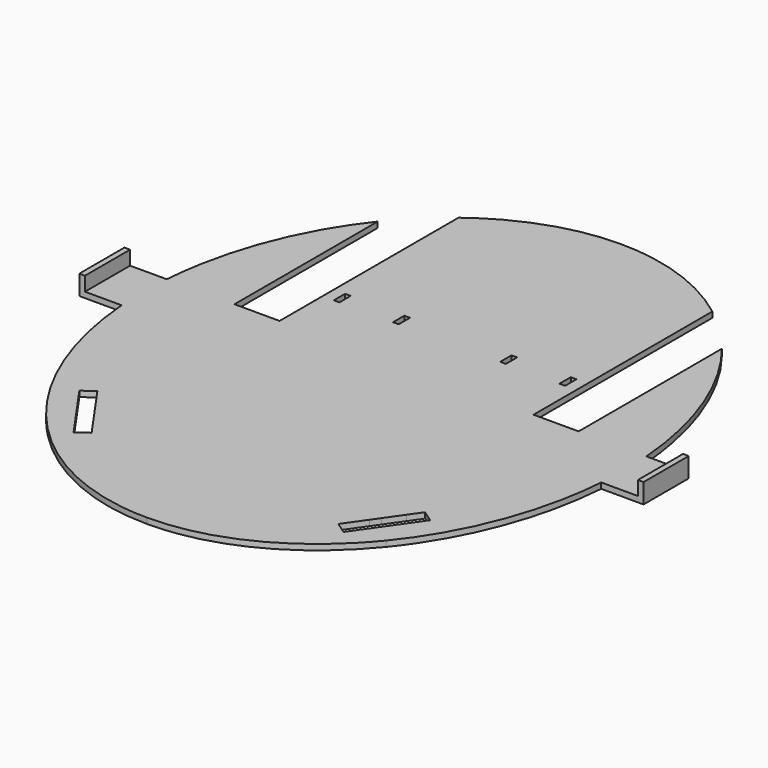
from build123d import *

# Parameters (mm, degrees)
F0_W      = 170
F0_H      = 210
F1_DEPTH  = 2
F2_W      = 15
F2_H      = 20
F3_DEPTH  = 2
F4_W      = 2
F4_H      = 20
F5_DEPTH  = 5
F7_DEPTH  = 2.001
F9_DEPTH  = 2.0010001
F11_DEPTH = 2.0010001
F12_W     = 2
F12_H     = 5
F13_DEPTH = 2.0010001


with BuildPart() as f1:
    # F0 (on Top) → F1 (new body)
    with BuildSketch(Plane.XY):
        with Locations((85, 105)):
            Rectangle(F0_W, F0_H)
    extrude(amount=F1_DEPTH)

    # F2 (on face) → F3 (join)
    with BuildSketch(Plane.XY.offset(2)):
        with Locations((-7.5, 105)):
            Rectangle(F2_W, F2_H)
        with Locations((177.5, 105)):
            Rectangle(F2_W, F2_H)
    extrude(amount=-F3_DEPTH)

    # F4 (on face) → F5 (join)
    with BuildSketch(Plane.XY.offset(2)):
        with Locations((184, 105)):
            Rectangle(F4_W, F4_H)
        with Locations((-14, 105)):
            Rectangle(F4_W, F4_H)
    extrude(amount=F5_DEPTH)

    # F6 (on face) → F7 (cut, through all)
    with BuildSketch(Plane.XY.offset(2)):
        with BuildLine():
            add(Edge.make_bspline(
                [(24.7591678446, 179.4151456037), (2.9330243604, 152.697989574), (0, 115)],
                knots=[3.9247129048, 3.9247129048, 3.9247129048, 4.6170063214, 4.6170063214, 4.6170063214], degree=2, weights=[1, 0.940687021, 1]))
            Line((24.7591678446, 179.4151456037), (0, 210))
            Line((0, 210), (0, 115))
        make_face()
        with BuildLine():
            add(Edge.make_bspline(
                [(85, 210), (49.7449642279, 210), (24.7591678446, 179.4151456037)],
                knots=[3.1415926536, 3.1415926536, 3.1415926536, 3.9247129048, 3.9247129048, 3.9247129048], degree=2, weights=[1, 0.9243147928, 1]))
            Line((85, 210), (0, 210))
            Line((0, 210), (24.7591678446, 179.4151456037))
        make_face()
        with BuildLine():
            add(Edge.make_bspline(
                [(145.2408321554, 179.4151456037), (120.2550357721, 210), (85, 210)],
                knots=[2.3584724024, 2.3584724024, 2.3584724024, 3.1415926536, 3.1415926536, 3.1415926536], degree=2, weights=[1, 0.9243147928, 1]))
            Line((145.2408321554, 179.4151456037), (170, 210))
            Line((170, 210), (85, 210))
        make_face()
        with BuildLine():
            add(Edge.make_bspline(
                [(170, 115), (167.0669756396, 152.697989574), (145.2408321554, 179.4151456037)],
                knots=[1.6661789858, 1.6661789858, 1.6661789858, 2.3584724024, 2.3584724024, 2.3584724024], degree=2, weights=[1, 0.940687021, 1]))
            Line((170, 115), (170, 210))
            Line((170, 210), (145.2408321554, 179.4151456037))
        make_face()
        with BuildLine():
            Line((0, 0), (24.7591678446, 30.5848543963))
            add(Edge.make_bspline(
                [(0, 95), (2.9330243604, 57.302010426), (24.7591678446, 30.5848543963)],
                knots=[4.8077716394, 4.8077716394, 4.8077716394, 5.500065056, 5.500065056, 5.500065056], degree=2, weights=[1, 0.940687021, 1]))
            Line((0, 95), (0, 0))
        make_face()
        with BuildLine():
            Line((0, 0), (85, 0))
            add(Edge.make_bspline(
                [(24.7591678446, 30.5848543963), (49.7449642279, 0), (85, 0)],
                knots=[5.500065056, 5.500065056, 5.500065056, 6.2831853072, 6.2831853072, 6.2831853072], degree=2, weights=[1, 0.9243147928, 1]))
            Line((24.7591678446, 30.5848543963), (0, 0))
        make_face()
        with BuildLine():
            Line((170, 0), (145.2408321554, 30.5848543963))
            add(Edge.make_bspline(
                [(85, 0), (120.2550357721, 0), (145.2408321554, 30.5848543963)],
                knots=[0, 0, 0, 0.7831202512, 0.7831202512, 0.7831202512], degree=2, weights=[1, 0.9243147928, 1]))
            Line((85, 0), (170, 0))
        make_face()
        with BuildLine():
            Line((170, 0), (170, 95))
            add(Edge.make_bspline(
                [(145.2408321554, 30.5848543963), (167.0669756396, 57.302010426), (170, 95)],
                knots=[0.7831202512, 0.7831202512, 0.7831202512, 1.4754136678, 1.4754136678, 1.4754136678], degree=2, weights=[1, 0.940687021, 1]))
            Line((145.2408321554, 30.5848543963), (170, 0))
        make_face()
    extrude(amount=-F7_DEPTH, mode=Mode.SUBTRACT)

    # F8 (on face) → F9 (cut, through all)
    with BuildSketch(Plane.XY.offset(2)):
        Polygon((140, 37.5), (133.8961270562, 37.5), (128.7345343242, 30.1284816281), (132.8302945456, 27.2605994464), align=None)
        Polygon((135.9042397786, 40.3678821818), (133.8961270562, 37.5), (140, 37.5), align=None)
        Polygon((140, 37.5), (140, 46.2172339781), (135.9042397786, 40.3678821818), align=None)
        Polygon((143.0739452329, 50.6072827354), (140, 46.2172339781), (140, 37.5), (147.1697054544, 47.7394005536), align=None)
        Polygon((36.1038729438, 37.5), (30, 37.5), (37.1697054544, 27.2605994464), (41.2654656758, 30.1284816281), align=None)
        Polygon((34.0957602214, 40.3678821818), (30, 37.5), (36.1038729438, 37.5), align=None)
        Polygon((34.0957602214, 40.3678821818), (30, 46.2172339781), (30, 37.5), align=None)
        Polygon((30, 37.5), (30, 46.2172339781), (26.9260547671, 50.6072827354), (22.8302945456, 47.7394005536), align=None)
    extrude(amount=-F9_DEPTH, mode=Mode.SUBTRACT)

    # F10 (on face) → F11 (cut, through all)
    with BuildSketch(Plane.XY.offset(2)):
        with BuildLine():
            Line((135.1302650927, 190), (130, 190))
            Line((130, 190), (130, 115))
            Line((130, 115), (146, 115))
            Line((146, 115), (146, 178.4740497466))
            add(Edge.make_bspline(
                [(135.1302650927, 190), (137.306371465, 188.0593608414), (139.4104340586, 186.0222842528), (141.4370654471, 183.8965010357), (143.381737679, 181.6908438843), (145.3934634846, 179.2283111754), (145.5457000719, 179.0407818641), (145.6975377618, 178.8525601554), (145.8489724333, 178.6636485868), (146, 178.4740497466)],
                knots=[2.9839924319, 2.9839924319, 2.9839924319, 2.9839924319, 2.9839924319, 2.9839924319, 3.1415926536, 3.1415926536, 3.1415926536, 3.1415926536, 3.154531604, 3.154531604, 3.154531604, 3.154531604, 3.154531604, 3.154531604], degree=5, weights=[0.999407942, 0.9995850974, 0.9997589565, 0.999907202, 1, 1, 0.9999995139, 0.9999985599, 0.9999971556, 0.9999953185]))
        make_face()
        with BuildLine():
            Line((40, 190), (34.8697349073, 190))
            add(Edge.make_bspline(
                [(24, 178.4740497466), (24.1510275667, 178.6636485868), (24.3024622382, 178.8525601554), (24.4542999281, 179.0407818641), (24.6065365154, 179.2283111754), (26.618262321, 181.6908438843), (28.5629345529, 183.8965010357), (30.5895659414, 186.0222842528), (32.693628535, 188.0593608414), (34.8697349073, 190)],
                knots=[4.6041400787, 4.6041400787, 4.6041400787, 4.6041400787, 4.6041400787, 4.6041400787, 4.6170063214, 4.6170063214, 4.6170063214, 4.6170063214, 4.773720941, 4.773720941, 4.773720941, 4.773720941, 4.773720941, 4.773720941], degree=5, weights=[0.9999953185, 0.9999971556, 0.9999985599, 0.9999995139, 1, 1, 0.999907202, 0.9997589565, 0.9995850974, 0.999407942]))
            Line((24, 178.4740497466), (24, 115))
            Line((24, 115), (40, 115))
            Line((40, 115), (40, 190))
        make_face()
        with BuildLine():
            add(Edge.make_bspline(
                [(34.8697349073, 190), (35.8666495511, 190.8890427509), (36.8786886023, 191.7578499358), (37.9053142385, 192.6056593139), (38.9459535543, 193.4317626189), (40, 194.2355073866)],
                knots=[4.773720941, 4.773720941, 4.773720941, 4.773720941, 4.773720941, 4.773720941, 4.8454962601, 4.8454962601, 4.8454962601, 4.8454962601, 4.8454962601, 4.8454962601], degree=5, weights=[0.999407942, 0.9993268048, 0.9992449761, 0.9991646, 0.9990874899, 0.9990151282]))
            Line((34.8697349073, 190), (40, 190))
            Line((40, 190), (40, 194.2355073866))
        make_face()
        with BuildLine():
            add(Edge.make_bspline(
                [(130, 194.2355073866), (131.0540464457, 193.4317626189), (132.0946857615, 192.6056593139), (133.1213113977, 191.7578499358), (134.1333504489, 190.8890427509), (135.1302650927, 190)],
                knots=[2.911811507, 2.911811507, 2.911811507, 2.911811507, 2.911811507, 2.911811507, 2.9839924319, 2.9839924319, 2.9839924319, 2.9839924319, 2.9839924319, 2.9839924319], degree=5, weights=[0.9990151282, 0.9990874899, 0.9991646, 0.9992449761, 0.9993268048, 0.999407942]))
            Line((130, 194.2355073866), (130, 190))
            Line((130, 190), (135.1302650927, 190))
        make_face()
    extrude(amount=-F11_DEPTH, mode=Mode.SUBTRACT)

    # F12 (on face) → F13 (cut, through all)
    with BuildSketch(Plane.XY.offset(2)):
        with Locations((45, 136.5)):
            Rectangle(F12_W, F12_H)
        with Locations((66, 136.5)):
            Rectangle(F12_W, F12_H)
        with Locations((104, 136.5)):
            Rectangle(F12_W, F12_H)
        with Locations((125, 136.5)):
            Rectangle(F12_W, F12_H)
    extrude(amount=-F13_DEPTH, mode=Mode.SUBTRACT)


solid = f1.part
